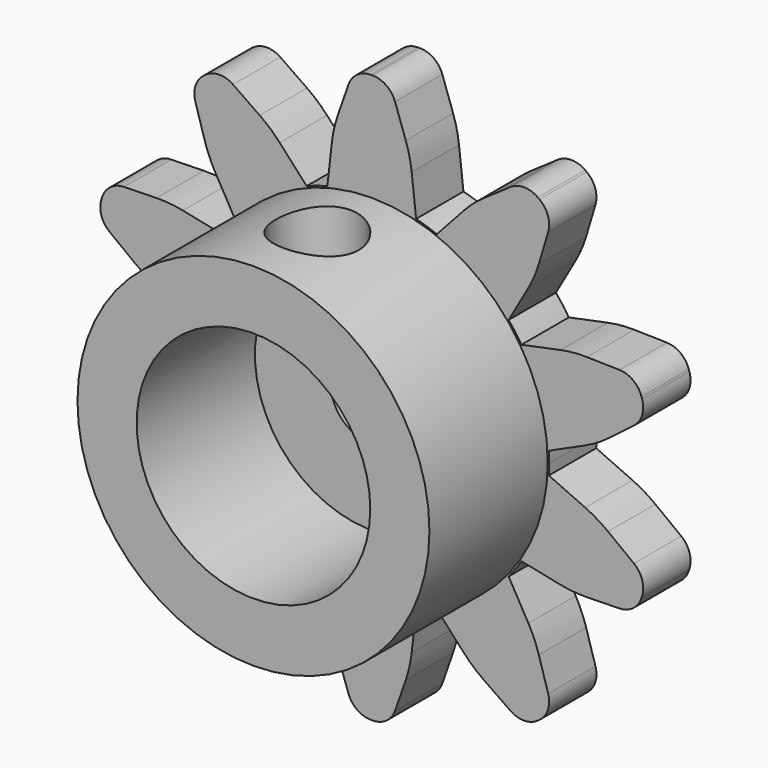
from build123d import *

# Parameters (mm, degrees)
F0_R     = 1.778
F1_DEPTH = 2.54
F2_R     = 7.5565
F2_R_2   = 5.0165
F3_DEPTH = 6.35
F4_R     = 5.08
F5_R     = 1.016
F6_R     = 1.778
F7_DEPTH = 25.4


with BuildPart() as f1:
    # F0 (on Front) → F1 (new body)
    with BuildSketch(Plane.XZ):
        with BuildLine():
            ThreePointArc((7.605604, -0.468175), (7.6164, -0.234198), (7.62, 0))
            ThreePointArc((7.62, 0), (7.6164, 0.234198), (7.605604, 0.468175))
            ThreePointArc((7.605604, 0.468175), (7.247051, 2.354709), (6.428249, 4.0917))
            ThreePointArc((6.428249, 4.0917), (6.164709, 4.478924), (5.877877, 4.849223))
            ThreePointArc((5.877877, 4.849223), (4.478924, 6.164709), (2.795522, 7.088685))
            ThreePointArc((2.795522, 7.088685), (2.354709, 7.247051), (1.905, 7.378033))
            ThreePointArc((1.905, 7.378033), (0, 7.62), (-1.905, 7.378033))
            ThreePointArc((-1.905, 7.378033), (-2.354709, 7.247051), (-2.795522, 7.088685))
            ThreePointArc((-2.795522, 7.088685), (-4.478924, 6.164709), (-5.877877, 4.849223))
            ThreePointArc((-5.877877, 4.849223), (-6.164709, 4.478924), (-6.428249, 4.0917))
            ThreePointArc((-6.428249, 4.0917), (-7.247051, 2.354709), (-7.605604, 0.468175))
            ThreePointArc((-7.605604, 0.468175), (-7.62, 0), (-7.605604, -0.468175))
            ThreePointArc((-7.605604, -0.468175), (-7.247051, -2.354709), (-6.428249, -4.0917))
            ThreePointArc((-6.428249, -4.0917), (-6.164709, -4.478924), (-5.877877, -4.849223))
            ThreePointArc((-5.877877, -4.849223), (-4.478924, -6.164709), (-2.795522, -7.088685))
            ThreePointArc((-2.795522, -7.088685), (-2.354709, -7.247051), (-1.905, -7.378033))
            ThreePointArc((-1.905, -7.378033), (0, -7.62), (1.905, -7.378033))
            ThreePointArc((1.905, -7.378033), (2.354709, -7.247051), (2.795522, -7.088685))
            ThreePointArc((2.795522, -7.088685), (4.478924, -6.164709), (5.877877, -4.849223))
            ThreePointArc((5.877877, -4.849223), (6.164709, -4.478924), (6.428249, -4.0917))
            ThreePointArc((6.428249, -4.0917), (7.247051, -2.354709), (7.605604, -0.468175))
        make_face()
        Circle(F0_R, mode=Mode.SUBTRACT)
        with BuildLine():
            ThreePointArc((6.428249, 4.0917), (7.247051, 2.354709), (7.605604, 0.468175))
            Line((7.605604, 0.468175), (9.689785, 1.412438))
            Line((9.689785, 1.412438), (11.830752, 3.04283))
            Line((11.830752, 3.04283), (11.35981, 4.49224))
            Line((11.35981, 4.49224), (8.66941, 4.552826))
            Line((8.66941, 4.552826), (6.428249, 4.0917))
        make_face()
        with BuildLine():
            Line((9.689785, -1.412438), (7.605604, -0.468175))
            ThreePointArc((7.605604, -0.468175), (7.247051, -2.354709), (6.428249, -4.0917))
            Line((6.428249, -4.0917), (8.66941, -4.552826))
            Line((8.66941, -4.552826), (11.35981, -4.49224))
            Line((11.35981, -4.49224), (11.830752, -3.04283))
            Line((11.830752, -3.04283), (9.689785, -1.412438))
        make_face()
        with BuildLine():
            ThreePointArc((2.795522, 7.088685), (4.478924, 6.164709), (5.877877, 4.849223))
            Line((5.877877, 4.849223), (7.00899, 6.838199))
            Line((7.00899, 6.838199), (7.782749, 9.415643))
            Line((7.782749, 9.415643), (6.549807, 10.311428))
            Line((6.549807, 10.311428), (4.337616, 8.779065))
            Line((4.337616, 8.779065), (2.795522, 7.088685))
        make_face()
        with BuildLine():
            Line((7.00899, -6.838199), (5.877877, -4.849223))
            ThreePointArc((5.877877, -4.849223), (4.478924, -6.164709), (2.795522, -7.088685))
            Line((2.795522, -7.088685), (4.337616, -8.779065))
            Line((4.337616, -8.779065), (6.549807, -10.311428))
            Line((6.549807, -10.311428), (7.782749, -9.415643))
            Line((7.782749, -9.415643), (7.00899, -6.838199))
        make_face()
        with BuildLine():
            ThreePointArc((-1.905, 7.378033), (0, 7.62), (1.905, 7.378033))
            Line((1.905, 7.378033), (1.651, 9.652))
            Line((1.651, 9.652), (0.762, 12.192))
            Line((0.762, 12.192), (-0.762, 12.192))
            Line((-0.762, 12.192), (-1.651, 9.652))
            Line((-1.651, 9.652), (-1.905, 7.378033))
        make_face()
        with BuildLine():
            Line((1.651, -9.652), (1.905, -7.378033))
            ThreePointArc((1.905, -7.378033), (0, -7.62), (-1.905, -7.378033))
            Line((-1.905, -7.378033), (-1.651, -9.652))
            Line((-1.651, -9.652), (-0.762, -12.192))
            Line((-0.762, -12.192), (0.762, -12.192))
            Line((0.762, -12.192), (1.651, -9.652))
        make_face()
        with BuildLine():
            ThreePointArc((-5.877877, 4.849223), (-4.478924, 6.164709), (-2.795522, 7.088685))
            Line((-2.795522, 7.088685), (-4.337616, 8.779065))
            Line((-4.337616, 8.779065), (-6.549807, 10.311428))
            Line((-6.549807, 10.311428), (-7.782749, 9.415643))
            Line((-7.782749, 9.415643), (-7.00899, 6.838199))
            Line((-7.00899, 6.838199), (-5.877877, 4.849223))
        make_face()
        with BuildLine():
            Line((-4.337616, -8.779065), (-2.795522, -7.088685))
            ThreePointArc((-2.795522, -7.088685), (-4.478924, -6.164709), (-5.877877, -4.849223))
            Line((-5.877877, -4.849223), (-7.00899, -6.838199))
            Line((-7.00899, -6.838199), (-7.782749, -9.415643))
            Line((-7.782749, -9.415643), (-6.549807, -10.311428))
            Line((-6.549807, -10.311428), (-4.337616, -8.779065))
        make_face()
        with BuildLine():
            ThreePointArc((-7.605604, 0.468175), (-7.247051, 2.354709), (-6.428249, 4.0917))
            Line((-6.428249, 4.0917), (-8.66941, 4.552826))
            Line((-8.66941, 4.552826), (-11.35981, 4.49224))
            Line((-11.35981, 4.49224), (-11.830752, 3.04283))
            Line((-11.830752, 3.04283), (-9.689785, 1.412438))
            Line((-9.689785, 1.412438), (-7.605604, 0.468175))
        make_face()
        with BuildLine():
            Line((-8.66941, -4.552826), (-6.428249, -4.0917))
            ThreePointArc((-6.428249, -4.0917), (-7.247051, -2.354709), (-7.605604, -0.468175))
            Line((-7.605604, -0.468175), (-9.689785, -1.412438))
            Line((-9.689785, -1.412438), (-11.830752, -3.04283))
            Line((-11.830752, -3.04283), (-11.35981, -4.49224))
            Line((-11.35981, -4.49224), (-8.66941, -4.552826))
        make_face()
    extrude(amount=F1_DEPTH)

    # F2 (on face) → F3 (join)
    with BuildSketch(Plane.XZ.offset(2.54)):
        Circle(F2_R)
        Circle(F2_R_2, mode=Mode.SUBTRACT)
    extrude(amount=F3_DEPTH)

    # F4
    f4_edges = [f1.edges().sort_by_distance(p)[0] for p in [
        (7.00899, -1.27, 6.838199),
        (4.337616, -1.27, 8.779065),
        (1.651, -1.27, 9.652),
        (-4.337616, -1.27, 8.779065),
        (-8.66941, -1.27, 4.552826),
        (-9.689785, -1.27, -1.412438),
        (-7.00899, -1.27, -6.838199),
        (-1.651, -1.27, -9.652),
        (4.337616, -1.27, -8.779065),
        (8.66941, -1.27, -4.552826),
        (9.689785, -1.27, 1.412438),
        (9.689785, -1.27, -1.412438),
        (8.66941, -1.27, 4.552826),
        (-1.651, -1.27, 9.652),
        (-7.00899, -1.27, 6.838199),
        (-9.689785, -1.27, 1.412438),
        (-8.66941, -1.27, -4.552826),
        (-4.337616, -1.27, -8.779065),
        (1.651, -1.27, -9.652),
        (7.00899, -1.27, -6.838199),
    ]]
    fillet(f4_edges, radius=F4_R)

    # F5
    f5_edges = [f1.edges().sort_by_distance(p)[0] for p in [
        (0.762, -1.27, 12.192),
        (-0.762, -1.27, 12.192),
        (-6.549807, -1.27, 10.311428),
        (-7.782749, -1.27, 9.415643),
        (-11.35981, -1.27, 4.49224),
        (6.549807, -1.27, 10.311428),
        (7.782749, -1.27, 9.415643),
        (11.35981, -1.27, 4.49224),
        (-11.830752, -1.27, 3.04283),
        (-11.830752, -1.27, -3.04283),
        (-11.35981, -1.27, -4.49224),
        (-7.782749, -1.27, -9.415643),
        (-6.549807, -1.27, -10.311428),
        (-0.762, -1.27, -12.192),
        (0.762, -1.27, -12.192),
        (6.549807, -1.27, -10.311428),
        (7.782749, -1.27, -9.415643),
        (11.830752, -1.27, -3.04283),
        (11.35981, -1.27, -4.49224),
        (11.830752, -1.27, 3.04283),
    ]]
    fillet(f5_edges, radius=F5_R)

    # F6 (on Top) → F7 (cut)
    with BuildSketch(Plane.XY):
        with Locations((0, -5.461)):
            Circle(F6_R)
    extrude(amount=F7_DEPTH, mode=Mode.SUBTRACT)


solid = f1.part
